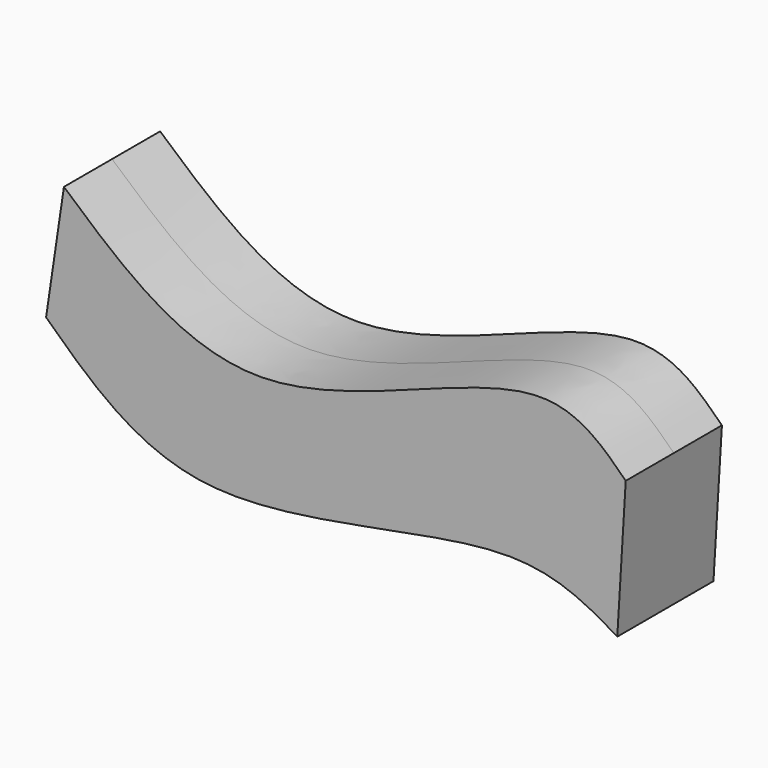
from build123d import *

# Parameters (mm, degrees)
F1_DEPTH = 12.7


with BuildPart() as f1:
    # F0 (on Front) → F1 (new body, symmetric)
    with BuildSketch(Plane.XZ):
        with BuildLine():
            add(Edge.make_bspline(
                [(-47.4320463836, 25.5021620542), (-34.862781868, 14.4202130024), (-8.1314968339, -9.1479709967), (52.8445386323, 27.667796396), (66.271357968, 14.3590469203), (71.2472945452, 9.426866658)],
                knots=[0, 0, 0, 0, 0.3584052589, 0.7622270279, 1, 1, 1, 1], degree=3))
            Line((-47.4320463836, 25.5021620542), (-51.2027963996, 0))
            add(Edge.make_bspline(
                [(-51.2027963996, 0), (-41.6162605359, -9.0968015613), (-19.8203713943, -29.7792337967), (46.7679164935, -6.5646843288), (63.2153754641, -16.4064232076), (69.4611519575, -20.1437361538)],
                knots=[0, 0, 0, 0, 0.3275116722, 0.7446285291, 1, 1, 1, 1], degree=3))
            Line((69.4611519575, -20.1437361538), (71.2472945452, 9.426866658))
        make_face()
    extrude(amount=F1_DEPTH, both=True)


solid = f1.part
